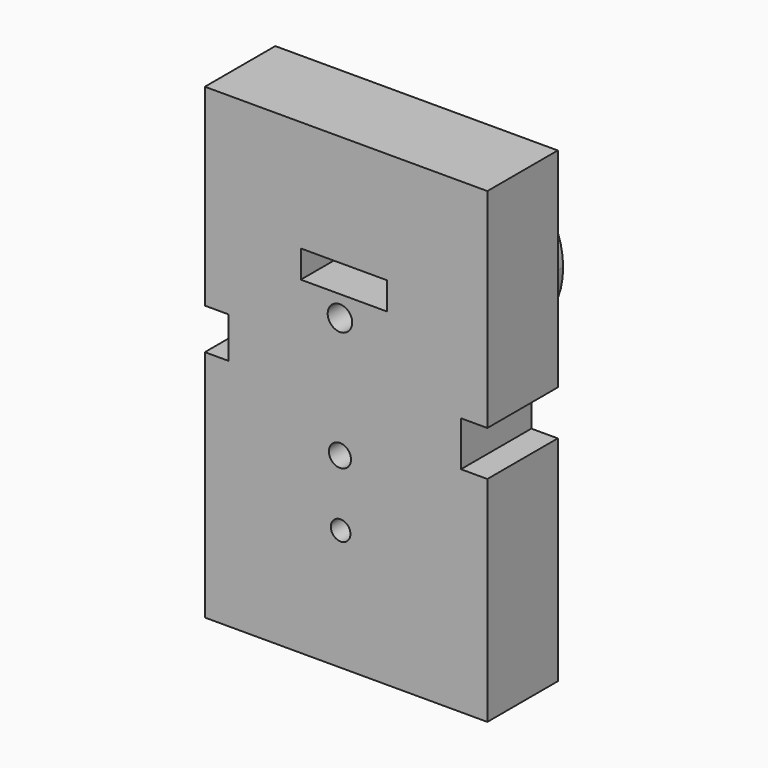
from build123d import *

# Parameters (mm, degrees)
F0_R     = 3.541779
F0_W     = 24.890188
F0_H     = 7.943678
F0_R_2   = 3.187601
F0_R_3   = 2.833423
F1_DEPTH = 25.4
F2_DEPTH = 25.4


with BuildPart() as f1:
    # F0 (on Front) → F1 (new body)
    with BuildSketch(Plane.XZ):
        with BuildLine():
            ThreePointArc((0, 11.1125), (16.817843, 18.078679), (23.784022, 34.896522))
            ThreePointArc((23.784022, 34.896522), (-16.817843, 51.714365), (0, 11.1125))
        make_face()
        with Locations((0, 34.896522)):
            Circle(F0_R, mode=Mode.SUBTRACT)
        with Locations((1.142709, 44.963414)):
            Rectangle(F0_W, F0_H, mode=Mode.SUBTRACT)
        with BuildLine():
            ThreePointArc((11.1125, 0), (7.857724, 7.857724), (0, 11.1125))
            ThreePointArc((0, 11.1125), (-11.112349, -0.058006), (0.116011, -11.111894))
            ThreePointArc((0.116011, -11.111894), (7.898634, -7.8166), (11.1125, 0))
        make_face()
        Circle(F0_R_2, mode=Mode.SUBTRACT)
        with BuildLine():
            ThreePointArc((8.073733, -18.986969), (5.737907, -13.389154), (0.116011, -11.111894))
            ThreePointArc((0.116011, -11.111894), (-5.341448, -24.584784), (8.073733, -18.986969))
        make_face()
        with Locations((0.198229, -18.986969)):
            Circle(F0_R_3, mode=Mode.SUBTRACT)
    extrude(amount=-F1_DEPTH)


with BuildPart() as f2:
    # F0 (on Front) → F2 (new body)
    with BuildSketch(Plane.XZ):
        Polygon((42.553123, 81.016712), (-38.992912, 81.016712), (-38.992912, 25.382502), (-32.133896, 25.382502), (-32.133896, 13.569761), (-38.992912, 13.569761), (-38.992912, -53.87719), (42.553123, -53.87719), (42.553123, 7.853919), (34.931999, 7.853919), (34.931999, 20.809829), (42.553123, 20.809829), align=None)
        with BuildLine():
            ThreePointArc((8.073733, -18.986969), (-5.341448, -24.584784), (0.116011, -11.111894))
            ThreePointArc((0.116011, -11.111894), (5.737907, -13.389154), (8.073733, -18.986969))
        make_face(mode=Mode.SUBTRACT)
        with BuildLine():
            ThreePointArc((0.116011, -11.111894), (-11.112349, -0.058006), (0, 11.1125))
            ThreePointArc((0, 11.1125), (7.857724, 7.857724), (11.1125, 0))
            ThreePointArc((11.1125, 0), (7.898634, -7.8166), (0.116011, -11.111894))
        make_face(mode=Mode.SUBTRACT)
        with BuildLine():
            ThreePointArc((0, 11.1125), (-16.817843, 51.714365), (23.784022, 34.896522))
            ThreePointArc((23.784022, 34.896522), (16.817843, 18.078679), (0, 11.1125))
        make_face(mode=Mode.SUBTRACT)
        with BuildLine():
            ThreePointArc((8.073733, -18.986969), (5.737907, -13.389154), (0.116011, -11.111894))
            ThreePointArc((0.116011, -11.111894), (-5.341448, -24.584784), (8.073733, -18.986969))
        make_face()
        with Locations((0.198229, -18.986969)):
            Circle(F0_R_3, mode=Mode.SUBTRACT)
        with BuildLine():
            ThreePointArc((11.1125, 0), (7.857724, 7.857724), (0, 11.1125))
            ThreePointArc((0, 11.1125), (-11.112349, -0.058006), (0.116011, -11.111894))
            ThreePointArc((0.116011, -11.111894), (7.898634, -7.8166), (11.1125, 0))
        make_face()
        Circle(F0_R_2, mode=Mode.SUBTRACT)
        with BuildLine():
            ThreePointArc((0, 11.1125), (16.817843, 18.078679), (23.784022, 34.896522))
            ThreePointArc((23.784022, 34.896522), (-16.817843, 51.714365), (0, 11.1125))
        make_face()
        with Locations((0, 34.896522)):
            Circle(F0_R, mode=Mode.SUBTRACT)
        with Locations((1.142709, 44.963414)):
            Rectangle(F0_W, F0_H, mode=Mode.SUBTRACT)
    extrude(amount=F2_DEPTH)


solid = Compound([f1.part, f2.part])
